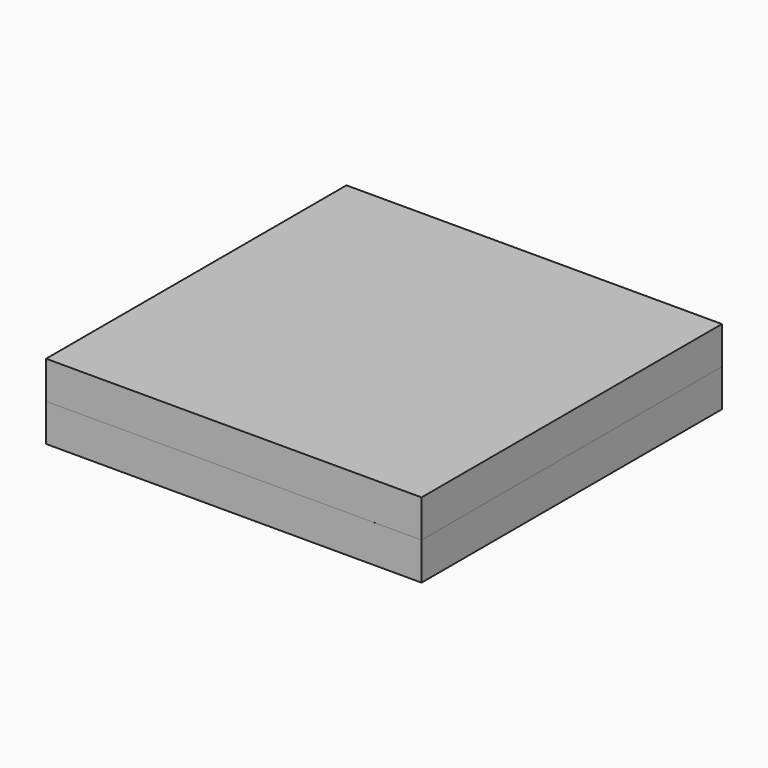
from build123d import *

# Parameters (mm, degrees)
F0_W     = 20
F0_H     = 20
F1_DEPTH = 2
F2_W     = 20
F2_H     = 20
F3_DEPTH = 2
F4_DEPTH = 2


with BuildPart() as f1:
    # F0 (on Top) → F1 (new body)
    with BuildSketch(Plane.XY):
        Rectangle(F0_W, F0_H)
    extrude(amount=F1_DEPTH)


with BuildPart() as f3:
    # F2 (on Top) → F3 (new body)
    with BuildSketch(Plane.XY):
        Rectangle(F2_W, F2_H)
    extrude(amount=-F3_DEPTH)


with BuildPart() as f4:
    # F2 (on Top) → F4 (new body)
    with BuildSketch(Plane.XY):
        Rectangle(F2_W, F2_H)
    extrude(amount=F4_DEPTH)


solid = Compound([f1.part, f3.part, f4.part])
